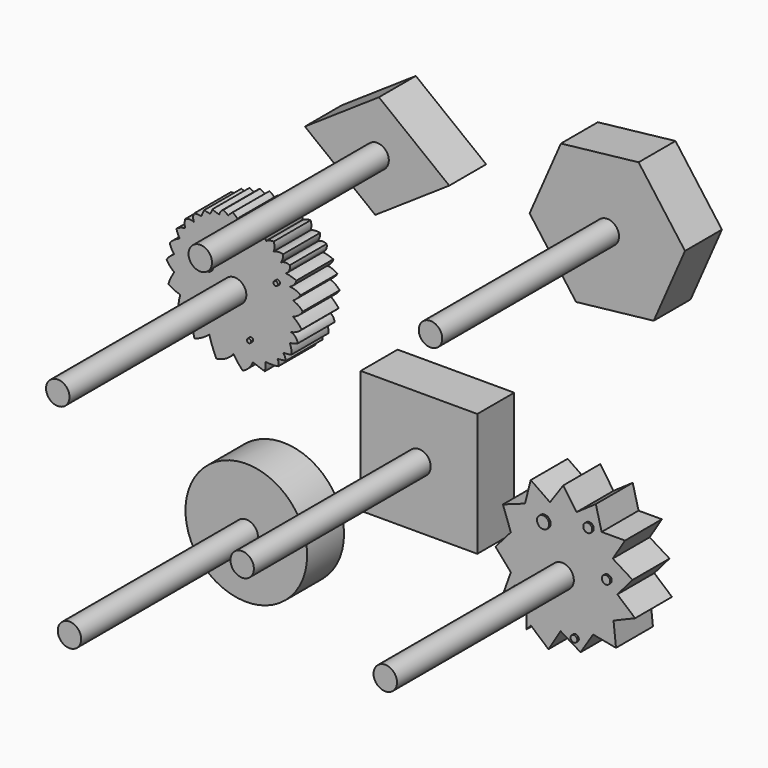
from build123d import *

# Parameters (mm, degrees)
F0_R      = 3.05
F1_DEPTH  = 69.5
F0_R_2    = 0.549732
F0_R_3    = 0.702516
F0_R_4    = 0.569049
F0_R_5    = 0.594251
F0_R_6    = 0.667647
F2_DEPTH  = 12
F3_DEPTH  = 12.68
F4_R      = 3.05
F5_DEPTH  = 69.5
F4_R_2    = 1.078375
F4_R_3    = 0.873252
F4_R_4    = 1.574718
F4_R_5    = 1.092661
F4_R_6    = 1.164699
F6_DEPTH  = 12
F7_DEPTH  = 12.5
F8_R      = 3.05
F9_DEPTH  = 69.5
F10_DEPTH = 12
F11_R     = 3.05
F12_DEPTH = 69.5
F11_R_2   = 15.825852
F13_DEPTH = 12
F14_R     = 3.05
F15_DEPTH = 69.5
F16_DEPTH = 12
F17_R     = 3.05
F18_DEPTH = 69.5
F17_W     = 30.344715
F17_H     = 32.030537
F19_DEPTH = 12


with BuildPart() as f1:
    # F0 (on Front) → F1 (new body)
    with BuildSketch(Plane.XZ):
        with Locations((-44.710729, 10.395497)):
            Circle(F0_R)
    extrude(amount=F1_DEPTH)

    # F0 (on Front) → F2 (join)
    with BuildSketch(Plane.XZ):
        with BuildLine():
            ThreePointArc((-32.72507, 20.693369), (-32.204099, 21.721485), (-32.080895, 22.867457))
            ThreePointArc((-32.080895, 22.867457), (-33.33207, 22.980871), (-34.552485, 22.682728))
            ThreePointArc((-34.552485, 22.682728), (-34.337229, 23.817034), (-34.552485, 24.95134))
            ThreePointArc((-34.552485, 24.95134), (-35.617798, 24.833394), (-36.593609, 24.390003))
            ThreePointArc((-36.593609, 24.390003), (-36.714545, 25.414832), (-37.029655, 26.397484))
            ThreePointArc((-37.029655, 26.397484), (-37.976309, 26.252408), (-38.775779, 25.725104))
            ThreePointArc((-38.775779, 25.725104), (-39.074236, 26.614142), (-39.596798, 27.392856))
            ThreePointArc((-39.596798, 27.392856), (-40.478264, 27.318624), (-41.123413, 26.713416))
            ThreePointArc((-41.123413, 26.713416), (-41.853318, 27.40989), (-42.652414, 28.025751))
            ThreePointArc((-42.652414, 28.025751), (-43.37128, 27.664717), (-43.901499, 27.059752))
            ThreePointArc((-43.901499, 27.059752), (-44.522576, 27.67342), (-45.262504, 28.136919))
            ThreePointArc((-45.262504, 28.136919), (-45.852533, 27.640221), (-46.36037, 27.059752))
            ThreePointArc((-46.36037, 27.059752), (-47.002343, 27.537357), (-47.72142, 27.888303))
            ThreePointArc((-47.72142, 27.888303), (-48.37645, 27.327423), (-48.66739, 26.515633))
            ThreePointArc((-48.66739, 26.515633), (-49.593183, 26.782634), (-50.468331, 27.185748))
            ThreePointArc((-50.468331, 27.185748), (-50.739572, 26.536474), (-51.100254, 25.93229))
            ThreePointArc((-51.100254, 25.93229), (-51.8516, 26.080227), (-52.584009, 26.303796))
            ThreePointArc((-52.584009, 26.303796), (-53.016684, 25.514748), (-53.330548, 24.671366))
            ThreePointArc((-53.330548, 24.671366), (-54.29468, 24.75449), (-55.258812, 24.671366))
            ThreePointArc((-55.258812, 24.671366), (-55.499259, 23.652204), (-55.258812, 22.633042))
            ThreePointArc((-55.258812, 22.633042), (-56.41332, 22.929789), (-57.567828, 22.633042))
            ThreePointArc((-57.567828, 22.633042), (-57.715236, 21.579222), (-57.567828, 20.525401))
            ThreePointArc((-57.567828, 20.525401), (-58.762726, 20.254812), (-59.841965, 19.674947))
            ThreePointArc((-59.841965, 19.674947), (-59.508076, 18.636654), (-58.950242, 17.699448))
            ThreePointArc((-58.950242, 17.699448), (-60.398646, 16.951802), (-61.601348, 15.85164))
            ThreePointArc((-61.601348, 15.85164), (-61.13681, 14.651997), (-60.426667, 13.57932))
            ThreePointArc((-60.426667, 13.57932), (-61.545559, 12.800557), (-62.409288, 11.745871))
            ThreePointArc((-62.409288, 11.745871), (-61.530146, 10.527195), (-60.426667, 9.507194))
            ThreePointArc((-60.426667, 9.507194), (-61.308125, 7.937766), (-61.973507, 6.265241))
            ThreePointArc((-61.973507, 6.265241), (-60.464157, 5.46272), (-58.857203, 4.879731))
            ThreePointArc((-58.857203, 4.879731), (-59.296906, 2.594795), (-59.287949, 0.267953))
            ThreePointArc((-59.287949, 0.267953), (-57.366766, 0.451878), (-55.490445, 0.903754))
            ThreePointArc((-55.490445, 0.903754), (-55.581527, -1.535365), (-55.17481, -3.942059))
            ThreePointArc((-55.17481, -3.942059), (-53.124325, -3.088027), (-51.322084, -1.78965))
            ThreePointArc((-51.322084, -1.78965), (-50.489196, -4.288121), (-49.452899, -6.709307))
            ThreePointArc((-49.452899, -6.709307), (-46.983013, -5.887192), (-45.005407, -4.194476))
            ThreePointArc((-45.005407, -4.194476), (-43.889671, -5.772657), (-42.621429, -7.231111))
            ThreePointArc((-42.621429, -7.231111), (-41.015757, -6.10854), (-39.971307, -4.45099))
            ThreePointArc((-39.971307, -4.45099), (-38.424095, -4.98986), (-36.878374, -5.53299))
            ThreePointArc((-36.878374, -5.53299), (-36.663225, -4.396421), (-36.672886, -3.239708))
            ThreePointArc((-36.672886, -3.239708), (-35.009738, -3.388996), (-33.346589, -3.239708))
            ThreePointArc((-33.346589, -3.239708), (-33.267268, -2.396786), (-33.565696, -1.604479))
            ThreePointArc((-33.565696, -1.604479), (-32.474838, -1.466638), (-31.383973, -1.32884))
            ThreePointArc((-31.383973, -1.32884), (-31.629437, -0.455203), (-32.080895, 0.331995))
            ThreePointArc((-32.080895, 0.331995), (-31.006925, 0.359205), (-29.947992, 0.540342))
            ThreePointArc((-29.947992, 0.540342), (-29.976661, 1.85845), (-30.387089, 3.111358))
            ThreePointArc((-30.387089, 3.111358), (-29.315611, 3.288718), (-28.291877, 3.651331))
            ThreePointArc((-28.291877, 3.651331), (-28.857916, 4.946005), (-30.056778, 5.693874))
            ThreePointArc((-30.056778, 5.693874), (-28.535165, 6.207177), (-27.255015, 7.176716))
            ThreePointArc((-27.255015, 7.176716), (-28.30369, 8.385695), (-29.529195, 9.415008))
            ThreePointArc((-29.529195, 9.415008), (-28.071509, 10.152997), (-26.987817, 11.375734))
            ThreePointArc((-26.987817, 11.375734), (-28.132424, 12.415986), (-29.529195, 13.080274))
            ThreePointArc((-29.529195, 13.080274), (-28.448135, 13.908394), (-27.550313, 14.932302))
            ThreePointArc((-27.550313, 14.932302), (-28.879472, 15.694916), (-30.387089, 15.969388))
            ThreePointArc((-30.387089, 15.969388), (-29.286535, 16.751344), (-28.64305, 17.938189))
            ThreePointArc((-28.64305, 17.938189), (-29.999294, 18.433831), (-31.414641, 18.719923))
            ThreePointArc((-31.414641, 18.719923), (-30.500005, 19.608458), (-30.387089, 20.878618))
            ThreePointArc((-30.387089, 20.878618), (-31.583709, 21.134705), (-32.72507, 20.693369))
        make_face()
        with Locations((-40.425234, 0.59294)):
            Circle(F0_R_2, mode=Mode.SUBTRACT)
        with Locations((-54.507405, 3.645707)):
            Circle(F0_R_3, mode=Mode.SUBTRACT)
        with Locations((-44.710729, 10.395497)):
            Circle(F0_R, mode=Mode.SUBTRACT)
        with Locations((-50.936937, 13.534902)):
            Circle(F0_R_4, mode=Mode.SUBTRACT)
        with Locations((-33.494845, 15.968369)):
            Circle(F0_R_5, mode=Mode.SUBTRACT)
        with Locations((-44.960637, 23.002665)):
            Circle(F0_R_6, mode=Mode.SUBTRACT)
    extrude(amount=F2_DEPTH)

    # F0 (on Front) → F3 (join)
    with BuildSketch(Plane.XZ):
        with Locations((-33.494845, 15.968369)):
            Circle(F0_R_5)
        with Locations((-44.960637, 23.002665)):
            Circle(F0_R_6)
        with Locations((-50.936937, 13.534902)):
            Circle(F0_R_4)
        with Locations((-40.425234, 0.59294)):
            Circle(F0_R_2)
        with Locations((-54.507405, 3.645707)):
            Circle(F0_R_3)
    extrude(amount=F3_DEPTH)


with BuildPart() as f5:
    # F4 (on Front) → F5 (new body)
    with BuildSketch(Plane.XZ):
        with Locations((40.48067, -27.234618)):
            Circle(F4_R)
    extrude(amount=F5_DEPTH)

    # F4 (on Front) → F6 (join)
    with BuildSketch(Plane.XZ):
        Polygon((48.531508, -38.007867), (54.504316, -39.133766), (53.860489, -33.089962), (59.463974, -30.735595), (54.856046, -26.772126), (58.819516, -22.164198), (53.649368, -18.96863), (56.844937, -13.798482), (50.766937, -13.798482), (49.247339, -7.913509), (44.253336, -11.3779), (40.788945, -6.383895), (37.324555, -11.3779), (32.33055, -7.913509), (30.810952, -13.798482), (25.088994, -15.848185), (27.138696, -21.570143), (23.146115, -26.152869), (27.138696, -30.735595), (25.088994, -36.457553), (31.166994, -36.457553), (31.166994, -42.535553), (32.33055, -41.189726), (36.928405, -45.164876), (40.095992, -39.977538), (45.28333, -43.145126), align=None)
        with Locations((28.791547, -34.338141)):
            Circle(F4_R_2, mode=Mode.SUBTRACT)
        with Locations((40.48067, -27.234618)):
            Circle(F4_R, mode=Mode.SUBTRACT)
        with Locations((43.956481, -40.283341)):
            Circle(F4_R_3, mode=Mode.SUBTRACT)
        with Locations((35.92192, -16.220622)):
            Circle(F4_R_4, mode=Mode.SUBTRACT)
        with Locations((52.291381, -24.072584)):
            Circle(F4_R_5, mode=Mode.SUBTRACT)
        with Locations((47.546346, -13.731905)):
            Circle(F4_R_6, mode=Mode.SUBTRACT)
    extrude(amount=F6_DEPTH)


with BuildPart() as f7:
    # F4 (on Front) → F7 (new body)
    with BuildSketch(Plane.XZ):
        with Locations((28.791547, -34.338141)):
            Circle(F4_R_2)
        with Locations((35.92192, -16.220622)):
            Circle(F4_R_4)
        with Locations((47.546346, -13.731905)):
            Circle(F4_R_6)
        with Locations((43.956481, -40.283341)):
            Circle(F4_R_3)
        with Locations((52.291381, -24.072584)):
            Circle(F4_R_5)
    extrude(amount=F7_DEPTH)


with BuildPart() as f9:
    # F8 (on Front) → F9 (new body)
    with BuildSketch(Plane.XZ):
        with Locations((52.240856, 55.3381)):
            Circle(F8_R)
    extrude(amount=F9_DEPTH)

    # F8 (on Front) → F10 (join)
    with BuildSketch(Plane.XZ):
        Polygon((32.028495, 53.068003), (44.100636, 36.698633), (64.312998, 38.968729), (72.453217, 57.608196), (60.381076, 73.977566), (40.168714, 71.70747), align=None)
        with Locations((52.240856, 55.3381)):
            Circle(F8_R, mode=Mode.SUBTRACT)
    extrude(amount=F10_DEPTH)


with BuildPart() as f12:
    # F11 (on Front) → F12 (new body)
    with BuildSketch(Plane.XZ):
        with Locations((-41.672245, -44.06976)):
            Circle(F11_R)
    extrude(amount=F12_DEPTH)

    # F11 (on Front) → F13 (join)
    with BuildSketch(Plane.XZ):
        with Locations((-41.672245, -44.06976)):
            Circle(F11_R_2)
        with Locations((-41.672245, -44.06976)):
            Circle(F11_R, mode=Mode.SUBTRACT)
    extrude(amount=F13_DEPTH)


with BuildPart() as f15:
    # F14 (on Front) → F15 (new body)
    with BuildSketch(Plane.XZ):
        with Locations((-7.648261, 53.276256)):
            Circle(F14_R)
    extrude(amount=F15_DEPTH)

    # F14 (on Front) → F16 (join)
    with BuildSketch(Plane.XZ):
        Polygon((-8.126843, 39.646811), (11.129479, 52.616897), (-7.169679, 66.9057), (-26.426002, 53.935614), align=None)
        with Locations((-7.648261, 53.276256)):
            Circle(F14_R, mode=Mode.SUBTRACT)
    extrude(amount=F16_DEPTH)


with BuildPart() as f18:
    # F17 (on Front) → F18 (new body)
    with BuildSketch(Plane.XZ):
        with Locations((3.253582, -13.318677)):
            Circle(F17_R)
    extrude(amount=F18_DEPTH)

    # F17 (on Front) → F19 (join)
    with BuildSketch(Plane.XZ):
        with Locations((3.253583, -13.318677)):
            Rectangle(F17_W, F17_H)
        with Locations((3.253582, -13.318677)):
            Circle(F17_R, mode=Mode.SUBTRACT)
    extrude(amount=F19_DEPTH)


solid = Compound([f1.part, f5.part, f7.part, f9.part, f12.part, f15.part, f18.part])
